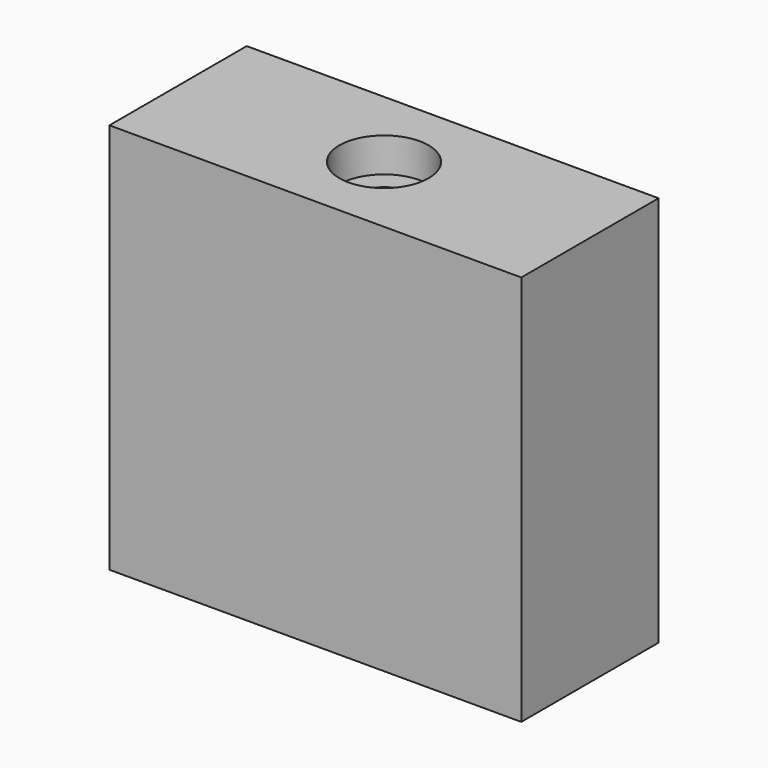
from build123d import *

# Parameters (mm, degrees)
F0_W          = 31.75
F0_H          = 72.39
F1_DEPTH      = 38.1
F1_DEPTH_BACK = 38.1
F2_R          = 8.255
F2_R_2        = 4.28625
F3_DEPTH      = 6.35
F3_FACE_R     = 4.28625
F4_DEPTH      = 72.391


with BuildPart() as f1:
    # F0 (on Right) → F1 (new body, two sides)
    with BuildSketch(Plane.YZ) as f1_sk:
        Rectangle(F0_W, F0_H)
    extrude(amount=F1_DEPTH)
    extrude(f1_sk.sketch, amount=-F1_DEPTH_BACK)

    # F2 (on face) → F3 (cut)
    with BuildSketch(Plane.XY.offset(36.195)):
        Circle(F2_R)
        Circle(F2_R_2, mode=Mode.SUBTRACT)
    extrude(amount=-F3_DEPTH, mode=Mode.SUBTRACT)

    # F3_face (on face) → F4 (cut, through all)
    with BuildSketch(Plane.XY.offset(36.195)):
        Circle(F3_FACE_R)
    extrude(amount=-F4_DEPTH, mode=Mode.SUBTRACT)


solid = f1.part
